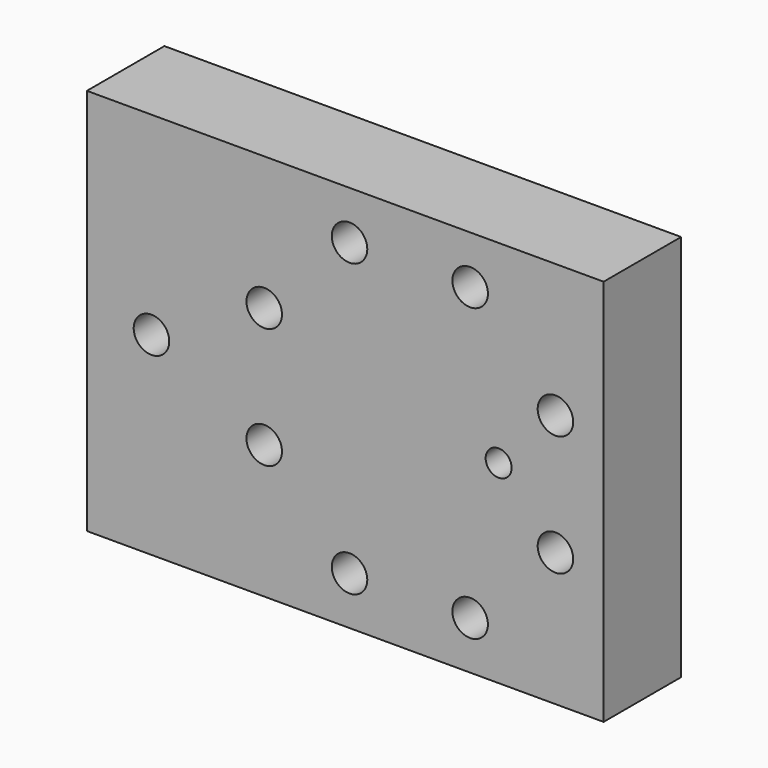
from build123d import *

# Parameters (mm, degrees)
F0_W     = 101.6
F0_H     = 76.2
F1_DEPTH = 9.525
F2_R     = 3.4925
F3_DEPTH = 25.4
F4_R     = 3.4925
F5_DEPTH = 25.4
F6_R     = 1.5875
F7_DEPTH = 25.4
F9_D     = 5.1054
F9_DEPTH = 12.7
F9_TIP   = 1.5338169022


with BuildPart() as f1:
    # F0 (on Front) → F1 (new body, symmetric)
    with BuildSketch(Plane.XZ):
        with Locations((-12.7, 0)):
            Rectangle(F0_W, F0_H)
    extrude(amount=F1_DEPTH, both=True)

    # F2 (on face) → F3 (cut)
    with BuildSketch(Plane.XZ.offset(9.525)):
        with Locations((11.8585942021, 28.6291789535)):
            Circle(F2_R)
        with Locations((-11.8585942021, 28.6291789535)):
            Circle(F2_R)
        with Locations((-28.6291789535, 11.8585942021)):
            Circle(F2_R)
        with Locations((-28.6291789535, -11.8585942021)):
            Circle(F2_R)
        with Locations((-11.8585942021, -28.6291789535)):
            Circle(F2_R)
        with Locations((11.8585942021, -28.6291789535)):
            Circle(F2_R)
        with Locations((28.6291789535, -11.8585942021)):
            Circle(F2_R)
        with Locations((28.6291789535, 11.8585942021)):
            Circle(F2_R)
    extrude(amount=-F3_DEPTH, mode=Mode.SUBTRACT)

    # F4 (on face) → F5 (cut)
    with BuildSketch(Plane.XZ.offset(9.525)):
        with Locations((-50.8, 0)):
            Circle(F4_R)
    extrude(amount=-F5_DEPTH, mode=Mode.SUBTRACT)

    # F6 (on face) → F7 (cut)
    with BuildSketch(Plane.XZ.offset(9.525)):
        with Locations((17.4625, 0)):
            Circle(F6_R)
    extrude(amount=-F7_DEPTH, mode=Mode.SUBTRACT)

    # F9
    with Locations(Plane.XZ.offset(9.525)):
        with Locations((17.4625, 0)):
            Hole(F9_D / 2, depth=F9_DEPTH)
            with Locations((0, 0, -(F9_DEPTH + F9_TIP / 2))):  # 118° drill point
                Cone(0, F9_D / 2, F9_TIP, mode=Mode.SUBTRACT)


solid = f1.part
